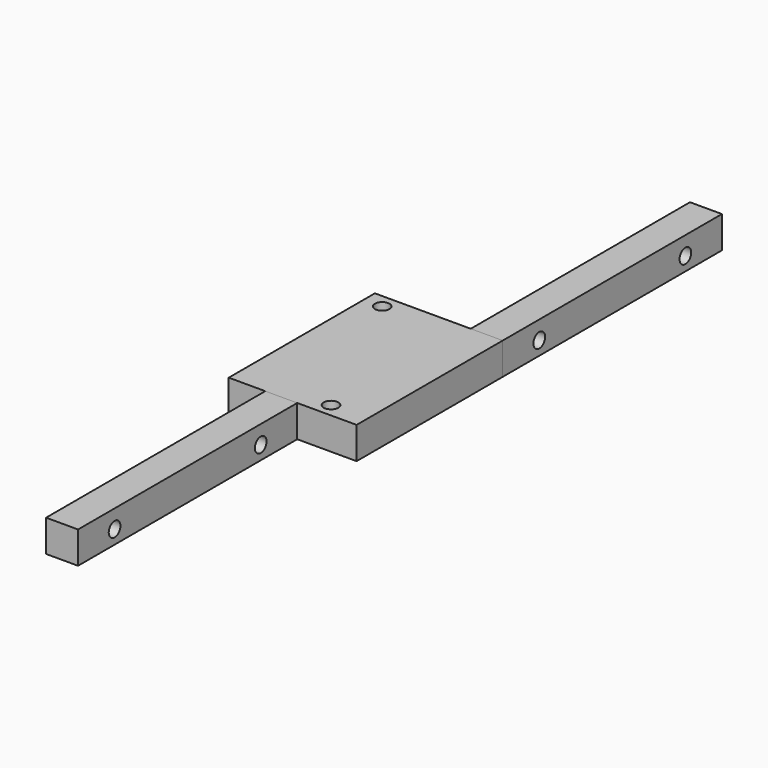
from build123d import *

# Parameters (mm, degrees)
CYLINDER001_R           = 1.6
CYLINDER001_DEPTH       = 20
CYLINDER001_PITCH_ANGLE = 90
CYLINDER_R              = 1.6
CYLINDER_DEPTH          = 20
CYLINDER_PITCH_ANGLE    = 90
BOX_W                   = 60
BOX_H                   = 7
BOX_DEPTH               = 7
BOX_PLACEMENT_ANGLE     = 90
CYLINDER003_R           = 1.6
CYLINDER003_DEPTH       = 20
CYLINDER003_PITCH_ANGLE = 90
CYLINDER002_R           = 1.6
CYLINDER002_DEPTH       = 20
CYLINDER002_PITCH_ANGLE = 90
BOX002_W                = 60
BOX002_H                = 7
BOX002_DEPTH            = 7
BOX002_PLACEMENT_ANGLE  = 90
CYLINDER005_R           = 1.6
CYLINDER005_DEPTH       = 20
CYLINDER004_R           = 1.6
CYLINDER004_DEPTH       = 20
BOX001_W                = 40
BOX001_H                = 28
BOX001_DEPTH            = 7
BOX001_PLACEMENT_ANGLE  = 90


with BuildPart() as cylindre011:
    # Cylinder001 → Cylinder001 (new body)
    with BuildSketch(Plane.XY):
        Circle(CYLINDER001_R)
    extrude(amount=CYLINDER001_DEPTH)


with BuildPart() as cylindre011_1:
    # Cylinder001 pitch: moved
    add(cylindre011.part.rotate(Axis((0, 0, 0), (0, 1, 0)), CYLINDER001_PITCH_ANGLE))


with BuildPart() as cylindre011_2:
    # Cylinder001 placement: moved
    add(cylindre011_1.part.moved(Location((-12, 50, 3))))


with BuildPart() as cylindre010:
    # Cylinder → Cylinder (new body)
    with BuildSketch(Plane.XY):
        Circle(CYLINDER_R)
    extrude(amount=CYLINDER_DEPTH)


with BuildPart() as cylindre010_1:
    # Cylinder pitch: moved
    add(cylindre010.part.rotate(Axis((0, 0, 0), (0, 1, 0)), CYLINDER_PITCH_ANGLE))


with BuildPart() as cylindre010_2:
    # Cylinder placement: moved
    add(cylindre010_1.part.moved(Location((-12, 10, 3))))


with BuildPart() as cut001:
    # Box → Box (new body)
    with BuildSketch(Plane.XY):
        with Locations((30, 3.5)):
            Rectangle(BOX_W, BOX_H)
    extrude(amount=BOX_DEPTH)


with BuildPart() as cut001_1:
    # Box placement: moved
    add(cut001.part.rotate(Axis((0, 0, 0), (0, 0, 1)), BOX_PLACEMENT_ANGLE))

    # Cut: cut Cylindre010
    add(cylindre010_2.part, mode=Mode.SUBTRACT)

    # Cut001: cut Cylindre011
    add(cylindre011_2.part, mode=Mode.SUBTRACT)


with BuildPart() as cylindre013:
    # Cylinder003 → Cylinder003 (new body)
    with BuildSketch(Plane.XY):
        Circle(CYLINDER003_R)
    extrude(amount=CYLINDER003_DEPTH)


with BuildPart() as cylindre013_1:
    # Cylinder003 pitch: moved
    add(cylindre013.part.rotate(Axis((0, 0, 0), (0, 1, 0)), CYLINDER003_PITCH_ANGLE))


with BuildPart() as cylindre013_2:
    # Cylinder003 placement: moved
    add(cylindre013_1.part.moved(Location((-20, -50, 3))))


with BuildPart() as cylindre012:
    # Cylinder002 → Cylinder002 (new body)
    with BuildSketch(Plane.XY):
        Circle(CYLINDER002_R)
    extrude(amount=CYLINDER002_DEPTH)


with BuildPart() as cylindre012_1:
    # Cylinder002 pitch: moved
    add(cylindre012.part.rotate(Axis((0, 0, 0), (0, 1, 0)), CYLINDER002_PITCH_ANGLE))


with BuildPart() as cylindre012_2:
    # Cylinder002 placement: moved
    add(cylindre012_1.part.moved(Location((-20, -90, 3))))


with BuildPart() as cut003:
    # Box002 → Box002 (new body)
    with BuildSketch(Plane.XY):
        with Locations((30, 3.5)):
            Rectangle(BOX002_W, BOX002_H)
    extrude(amount=BOX002_DEPTH)


with BuildPart() as cut003_1:
    # Box002 placement: moved
    add(cut003.part.moved(Location((-13, -100, 0))).rotate(Axis((-13, -100, 0), (0, 0, 1)), BOX002_PLACEMENT_ANGLE))

    # Cut002: cut Cylindre012
    add(cylindre012_2.part, mode=Mode.SUBTRACT)

    # Cut003: cut Cylindre013
    add(cylindre013_2.part, mode=Mode.SUBTRACT)


with BuildPart() as cylindre015:
    # Cylinder005 → Cylinder005 (new body)
    with BuildSketch(Plane(origin=(-24, -3, -9), x_dir=(1, 0, 0), z_dir=(0, 0, 1))):
        Circle(CYLINDER005_R)
    extrude(amount=CYLINDER005_DEPTH)


with BuildPart() as cylindre014:
    # Cylinder004 → Cylinder004 (new body)
    with BuildSketch(Plane(origin=(-8, -37, -9), x_dir=(1, 0, 0), z_dir=(0, 0, 1))):
        Circle(CYLINDER004_R)
    extrude(amount=CYLINDER004_DEPTH)


with BuildPart() as cut005:
    # Box001 → Box001 (new body)
    with BuildSketch(Plane.XY):
        with Locations((20, 14)):
            Rectangle(BOX001_W, BOX001_H)
    extrude(amount=BOX001_DEPTH)


with BuildPart() as cut005_1:
    # Box001 placement: moved
    add(cut005.part.moved(Location((0, -40, 0))).rotate(Axis((0, -40, 0), (0, 0, 1)), BOX001_PLACEMENT_ANGLE))

    # Cut004: cut Cylindre014
    add(cylindre014.part, mode=Mode.SUBTRACT)

    # Cut005: cut Cylindre015
    add(cylindre015.part, mode=Mode.SUBTRACT)


solid = Compound([cut001_1.part, cut003_1.part, cut005_1.part])
